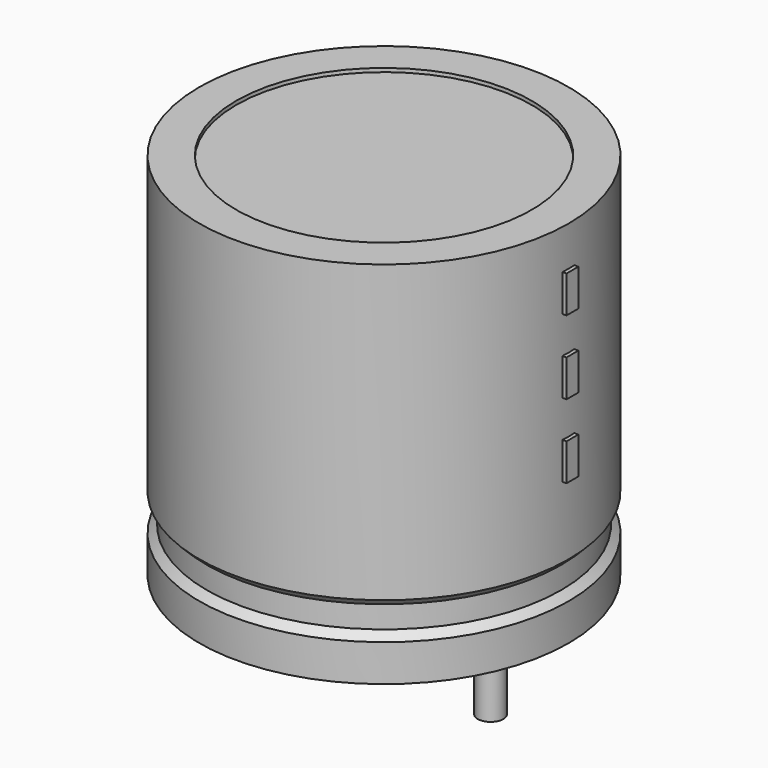
from build123d import *

# Parameters (mm, degrees)
SKETCH002_W  = 5.98
SKETCH002_H  = 12.74
SKETCH003_R  = 0.45
PAD_DEPTH    = 4.3
SKETCH004_W  = 0.52
SKETCH004_H  = 1.3
PAD001_DEPTH = 6.63


with BuildPart() as revolution:
    # Sketch → Revolution (revolve)
    with BuildSketch(Plane.XZ):
        Polygon((-2.75, 0.1), (-2.75, 1.4), (-2.49, 1.66), (-2.49, 2.44), (-2.75, 2.7), (-2.75, 13.1), (-1.45, 13.1), (-1.45, 0.1), align=None)
    revolve(axis=Axis((3.75, 0, 7.548619), (0, 0, -1)))


with BuildPart() as revolution001:
    # Sketch002 → Revolution001 (revolve)
    with BuildSketch(Plane.XZ):
        with Locations((0.76, 6.6)):
            Rectangle(SKETCH002_W, SKETCH002_H)
    revolve(axis=Axis((3.75, 0, 4.680116), (0, 0, -1)))


with BuildPart() as pad:
    # Sketch003 → Pad (new body)
    with BuildSketch(Plane.XY.offset(1.3)):
        Circle(SKETCH003_R)
        with Locations((7.5, 0)):
            Circle(SKETCH003_R)
    extrude(amount=-PAD_DEPTH)


with BuildPart() as pad001:
    # Sketch004 → Pad001 (new body)
    with BuildSketch(Plane.YZ.offset(3.75)):
        with Locations((0, 5.85)):
            Rectangle(SKETCH004_W, SKETCH004_H)
        with Locations((0, 8.45)):
            Rectangle(SKETCH004_W, SKETCH004_H)
        with Locations((0, 11.05)):
            Rectangle(SKETCH004_W, SKETCH004_H)
    extrude(amount=PAD001_DEPTH)


solid = Compound([revolution.part, revolution001.part, pad.part, pad001.part])
